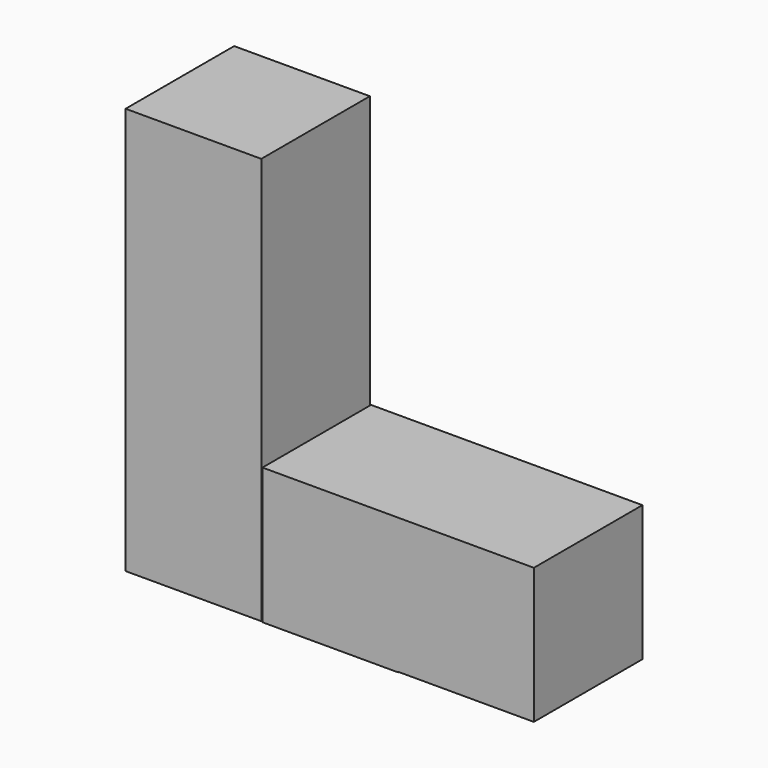
from build123d import *

# Parameters (mm, degrees)
F0_W     = 25.4
F0_H     = 25.4
F1_DEPTH = 25.4


with BuildPart() as f1:
    # F0 (on Front) → F1 (new body)
    with BuildSketch(Plane.XZ):
        with Locations((-12.7, -12.7)):
            Rectangle(F0_W, F0_H)
        with Locations((-12.7, 12.7)):
            Rectangle(F0_W, F0_H)
        with Locations((-12.7, 38.1)):
            Rectangle(F0_W, F0_H)
        Polygon((25.623299, 0), (0.223299, 0), (0.223299, -25.497694), (25.623299, -25.497694), (25.623299, -25.4), align=None)
        with Locations((38.323299, -12.7)):
            Rectangle(F0_W, F0_H)
    extrude(amount=F1_DEPTH)


solid = f1.part
